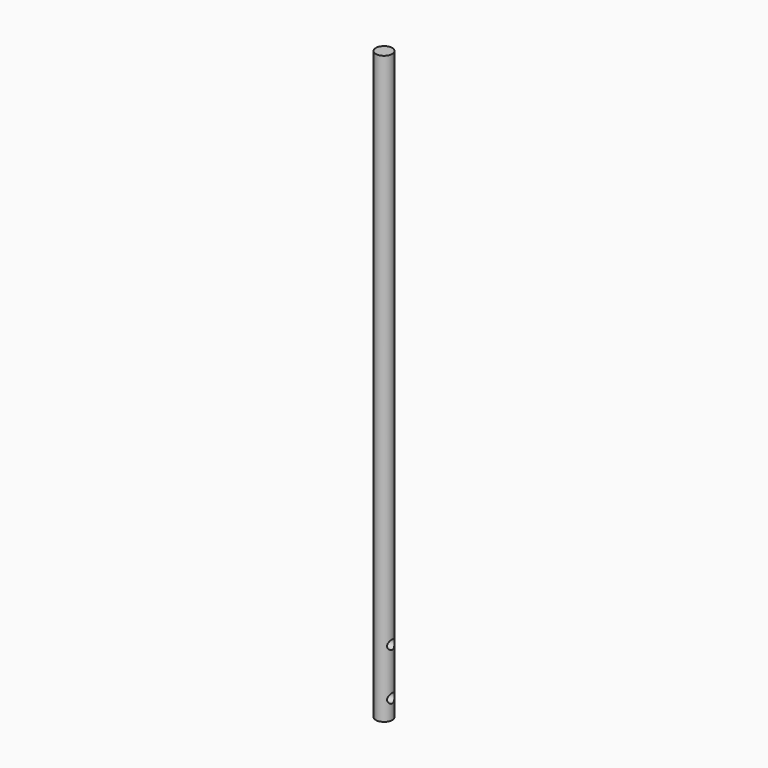
from build123d import *

# Parameters (mm, degrees)
F0_R          = 11.5
F1_DEPTH      = 820
F2_R          = 6.5
F3_DEPTH      = 100
F3_DEPTH_BACK = 25


with BuildPart() as f1:
    # F0 (on Top) → F1 (new body)
    with BuildSketch(Plane.XY):
        Circle(F0_R)
    extrude(amount=F1_DEPTH)

    # F2 (on Right) → F3 (cut, two sides)
    with BuildSketch(Plane.YZ) as f3_sk:
        with Locations((0, 27)):
            Circle(F2_R)
        with Locations((0, 93)):
            Circle(F2_R)
    extrude(amount=-F3_DEPTH, mode=Mode.SUBTRACT)
    extrude(f3_sk.sketch, amount=F3_DEPTH_BACK, mode=Mode.SUBTRACT)


solid = f1.part
